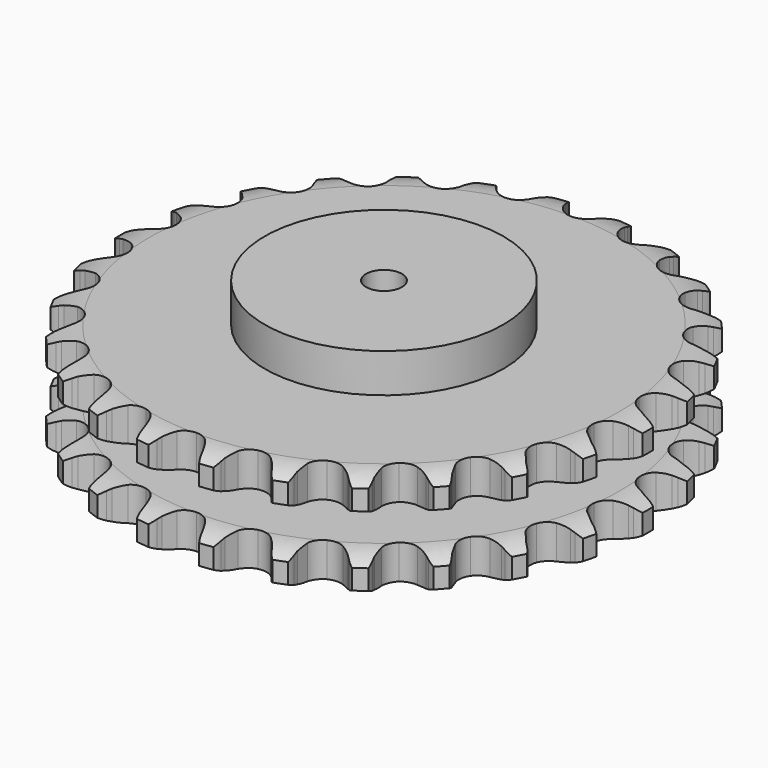
from build123d import *

# Parameters (mm, degrees)
PAD_DEPTH         = 87.4
SKETCH001_R       = 100
PAD001_DEPTH      = 120
SKETCH002_R       = 15
POCKET_DEPTH      = 0.001
POCKET_DEPTH_BACK = 120.001


with BuildPart() as part:
    # Sprocket → Pad (new body)
    with BuildSketch(Plane.XY):
        with BuildLine():
            ThreePointArc((-27.420974, 225.83204), (-21.977436, 220.908406), (-18.278157, 214.568877))
            Line((-18.278157, 214.568877), (-16.856778, 210.95338))
            ThreePointArc((-16.856778, 210.95338), (-14.597712, 206.200739), (-11.70509, 201.804865))
            ThreePointArc((-11.70509, 201.804865), (-6.530916, 197.536687), (0, 196.008112))
            ThreePointArc((0, 196.008112), (6.530916, 197.536687), (11.70509, 201.804865))
            ThreePointArc((11.70509, 201.804865), (14.597712, 206.200739), (16.856778, 210.95338))
            Line((16.856778, 210.95338), (18.278157, 214.568877))
            ThreePointArc((18.278157, 214.568877), (21.977436, 220.908406), (27.420974, 225.83204))
            ThreePointArc((27.420974, 225.83204), (31.528031, 219.748753), (33.602667, 212.708144))
            Line((33.602667, 212.708144), (34.117498, 208.85755))
            ThreePointArc((34.117498, 208.85755), (35.173538, 203.702382), (36.930104, 198.741993))
            ThreePointArc((36.930104, 198.741993), (40.932484, 193.359581), (46.907812, 190.312473))
            ThreePointArc((46.907812, 190.312473), (53.614763, 190.23368), (59.660026, 193.139571))
            Line((59.660026, 193.139571), (66.851399, 200.789368))
            ThreePointArc((66.851399, 200.789368), (67.933609, 202.403155), (69.09672, 203.959646))
            ThreePointArc((69.09672, 203.959646), (74.205653, 209.229664), (80.669315, 212.707503))
            ThreePointArc((80.669315, 212.707503), (83.201202, 205.818102), (83.530625, 198.485588))
            Line((83.530625, 198.485588), (83.108989, 194.623677))
            ThreePointArc((83.108989, 194.623677), (82.90063, 189.365582), (83.419055, 184.12896))
            ThreePointArc((83.419055, 184.12896), (86.017037, 177.945118), (91.089512, 173.556564))
            ThreePointArc((91.089512, 173.556564), (97.582715, 171.874982), (104.147739, 173.249707))
            Line((104.147739, 173.249707), (112.960859, 178.956207))
            ThreePointArc((112.960859, 178.956207), (114.397827, 180.264111), (115.899633, 181.497022))
            ThreePointArc((115.899633, 181.497022), (122.121308, 185.391255), (129.229449, 187.221179))
            ThreePointArc((129.229449, 187.221179), (130.039022, 179.926051), (128.604087, 172.72777))
            Line((128.604087, 172.72777), (127.270487, 169.078984))
            ThreePointArc((127.270487, 169.078984), (125.809839, 164.023543), (125.059993, 158.81502))
            ThreePointArc((125.059993, 158.81502), (126.102592, 152.189132), (129.97742, 146.714179))
            ThreePointArc((129.97742, 146.714179), (135.879514, 143.527535), (142.582764, 143.2912))
            Line((142.582764, 143.2912), (152.505446, 146.722761))
            ThreePointArc((152.505446, 146.722761), (154.21366, 147.648771), (155.966881, 148.486451))
            ThreePointArc((155.966881, 148.486451), (162.939716, 150.77858), (170.279237, 150.85424))
            ThreePointArc((170.279237, 150.85424), (169.319447, 143.577352), (166.203547, 136.931643))
            Line((166.203547, 136.931643), (164.035487, 133.708035))
            ThreePointArc((164.035487, 133.708035), (161.407436, 129.149052), (159.432899, 124.271329))
            ThreePointArc((159.432899, 124.271329), (158.859523, 117.588467), (161.311514, 111.345299))
            ThreePointArc((161.311514, 111.345299), (166.27949, 106.83879), (172.731396, 105.005129))
            Line((172.731396, 105.005129), (183.18697, 105.962323))
            ThreePointArc((183.18697, 105.962323), (185.067155, 106.452622), (186.9699, 106.846387))
            ThreePointArc((186.9699, 106.846387), (194.28866, 107.403202), (201.433014, 105.720201))
            ThreePointArc((201.433014, 105.720201), (198.759641, 98.884459), (194.143861, 93.177546))
            Line((194.143861, 93.177546), (191.267341, 90.566461))
            ThreePointArc((191.267341, 90.566461), (187.624621, 86.768887), (184.540144, 82.50544))
            ThreePointArc((184.540144, 82.50544), (182.384116, 76.153987), (183.270769, 69.505434))
            ThreePointArc((183.270769, 69.505434), (187.015906, 63.940962), (192.841508, 60.616542))
            Line((192.841508, 60.616542), (203.222333, 59.043739))
            ThreePointArc((203.222333, 59.043739), (205.16522, 59.069833), (207.106909, 58.996799))
            ThreePointArc((207.106909, 58.996799), (214.346253, 57.785941), (220.880237, 54.442089))
            ThreePointArc((220.880237, 54.442089), (216.648647, 48.444761), (210.80124, 44.008308))
            Line((210.80124, 44.008308), (207.383433, 42.161493))
            ThreePointArc((207.383433, 42.161493), (202.937744, 39.34603), (198.922587, 35.944635))
            ThreePointArc((198.922587, 35.944635), (195.309208, 30.293715), (194.578992, 23.626167))
            ThreePointArc((194.578992, 23.626167), (196.883638, 17.327118), (201.744373, 12.705142))
            Line((201.744373, 12.705142), (211.447153, 8.693747))
            ThreePointArc((211.447153, 8.693747), (213.339828, 8.25412), (215.207616, 7.718532))
            ThreePointArc((215.207616, 7.718532), (221.946822, 4.81037), (227.490704, 0))
            ThreePointArc((227.490704, 0), (221.946822, -4.81037), (215.207616, -7.718532))
            Line((215.207616, -7.718532), (211.447153, -8.693747))
            ThreePointArc((211.447153, -8.693747), (206.456864, -10.363475), (201.744373, -12.705142))
            ThreePointArc((201.744373, -12.705142), (196.883638, -17.327118), (194.578992, -23.626167))
            ThreePointArc((194.578992, -23.626167), (195.309208, -30.293715), (198.922587, -35.944635))
            Line((198.922587, -35.944635), (207.383433, -42.161493))
            ThreePointArc((207.383433, -42.161493), (209.1159, -43.041292), (210.80124, -44.008308))
            ThreePointArc((210.80124, -44.008308), (216.648647, -48.444761), (220.880237, -54.442089))
            ThreePointArc((220.880237, -54.442089), (214.346253, -57.785941), (207.106909, -58.996799))
            Line((207.106909, -58.996799), (203.222333, -59.043739))
            ThreePointArc((203.222333, -59.043739), (197.977461, -59.470693), (192.841508, -60.616542))
            ThreePointArc((192.841508, -60.616542), (187.015906, -63.940962), (183.270769, -69.505434))
            ThreePointArc((183.270769, -69.505434), (182.384116, -76.153987), (184.540144, -82.50544))
            Line((184.540144, -82.50544), (191.267341, -90.566461))
            ThreePointArc((191.267341, -90.566461), (192.738917, -91.835301), (194.143861, -93.177546))
            ThreePointArc((194.143861, -93.177546), (198.759641, -98.884459), (201.433014, -105.720201))
            ThreePointArc((201.433014, -105.720201), (194.28866, -107.403202), (186.9699, -106.846387))
            Line((186.9699, -106.846387), (183.18697, -105.962323))
            ThreePointArc((183.18697, -105.962323), (177.992327, -105.12169), (172.731396, -105.005129))
            ThreePointArc((172.731396, -105.005129), (166.27949, -106.83879), (161.311514, -111.345299))
            ThreePointArc((161.311514, -111.345299), (158.859523, -117.588467), (159.432899, -124.271329))
            Line((159.432899, -124.271329), (164.035487, -133.708035))
            ThreePointArc((164.035487, -133.708035), (165.160648, -135.292176), (166.203547, -136.931643))
            ThreePointArc((166.203547, -136.931643), (169.319447, -143.577352), (170.279237, -150.85424))
            ThreePointArc((170.279237, -150.85424), (162.939716, -150.77858), (155.966881, -148.486451))
            Line((155.966881, -148.486451), (152.505446, -146.722761))
            ThreePointArc((152.505446, -146.722761), (147.662926, -144.663397), (142.582764, -143.2912))
            ThreePointArc((142.582764, -143.2912), (135.879514, -143.527535), (129.97742, -146.714179))
            ThreePointArc((129.97742, -146.714179), (126.102592, -152.189132), (125.059993, -158.81502))
            Line((125.059993, -158.81502), (127.270487, -169.078984))
            ThreePointArc((127.270487, -169.078984), (127.983843, -170.886361), (128.604087, -172.72777))
            ThreePointArc((128.604087, -172.72777), (130.039022, -179.926051), (129.229449, -187.221179))
            ThreePointArc((129.229449, -187.221179), (122.121308, -185.391255), (115.899633, -181.497022))
            Line((115.899633, -181.497022), (112.960859, -178.956207))
            ThreePointArc((112.960859, -178.956207), (108.751893, -175.797792), (104.147739, -173.249707))
            ThreePointArc((104.147739, -173.249707), (97.582715, -171.874982), (91.089512, -173.556564))
            ThreePointArc((91.089512, -173.556564), (86.017037, -177.945118), (83.419055, -184.12896))
            Line((83.419055, -184.12896), (83.108989, -194.623677))
            ThreePointArc((83.108989, -194.623677), (83.369082, -196.549253), (83.530625, -198.485588))
            ThreePointArc((83.530625, -198.485588), (83.201202, -205.818102), (80.669315, -212.707503))
            ThreePointArc((80.669315, -212.707503), (74.205653, -209.229664), (69.09672, -203.959646))
            Line((69.09672, -203.959646), (66.851399, -200.789368))
            ThreePointArc((66.851399, -200.789368), (63.520596, -196.71546), (59.660026, -193.139571))
            ThreePointArc((59.660026, -193.139571), (53.614763, -190.23368), (46.907812, -190.312473))
            ThreePointArc((46.907812, -190.312473), (40.932484, -193.359581), (36.930104, -198.741993))
            Line((36.930104, -198.741993), (34.117498, -208.85755))
            ThreePointArc((34.117498, -208.85755), (33.909213, -210.789416), (33.602667, -212.708144))
            ThreePointArc((33.602667, -212.708144), (31.528031, -219.748753), (27.420974, -225.83204))
            ThreePointArc((27.420974, -225.83204), (21.977436, -220.908406), (18.278157, -214.568877))
            Line((18.278157, -214.568877), (16.856778, -210.95338))
            ThreePointArc((16.856778, -210.95338), (14.597712, -206.200739), (11.70509, -201.804865))
            ThreePointArc((11.70509, -201.804865), (6.530916, -197.536687), (0, -196.008112))
            ThreePointArc((0, -196.008112), (-6.530916, -197.536687), (-11.70509, -201.804865))
            Line((-11.70509, -201.804865), (-16.856778, -210.95338))
            ThreePointArc((-16.856778, -210.95338), (-17.521336, -212.779264), (-18.278157, -214.568877))
            ThreePointArc((-18.278157, -214.568877), (-21.977436, -220.908406), (-27.420974, -225.83204))
            ThreePointArc((-27.420974, -225.83204), (-31.528031, -219.748753), (-33.602667, -212.708144))
            Line((-33.602667, -212.708144), (-34.117498, -208.85755))
            ThreePointArc((-34.117498, -208.85755), (-35.173538, -203.702382), (-36.930104, -198.741993))
            ThreePointArc((-36.930104, -198.741993), (-40.932484, -193.359581), (-46.907812, -190.312473))
            ThreePointArc((-46.907812, -190.312473), (-53.614763, -190.23368), (-59.660026, -193.139571))
            Line((-59.660026, -193.139571), (-66.851399, -200.789368))
            ThreePointArc((-66.851399, -200.789368), (-67.933609, -202.403155), (-69.09672, -203.959646))
            ThreePointArc((-69.09672, -203.959646), (-74.205653, -209.229664), (-80.669315, -212.707503))
            ThreePointArc((-80.669315, -212.707503), (-83.201202, -205.818102), (-83.530625, -198.485588))
            Line((-83.530625, -198.485588), (-83.108989, -194.623677))
            ThreePointArc((-83.108989, -194.623677), (-82.90063, -189.365582), (-83.419055, -184.12896))
            ThreePointArc((-83.419055, -184.12896), (-86.017037, -177.945118), (-91.089512, -173.556564))
            ThreePointArc((-91.089512, -173.556564), (-97.582715, -171.874982), (-104.147739, -173.249707))
            Line((-104.147739, -173.249707), (-112.960859, -178.956207))
            ThreePointArc((-112.960859, -178.956207), (-114.397827, -180.264111), (-115.899633, -181.497022))
            ThreePointArc((-115.899633, -181.497022), (-122.121308, -185.391255), (-129.229449, -187.221179))
            ThreePointArc((-129.229449, -187.221179), (-130.039022, -179.926051), (-128.604087, -172.72777))
            Line((-128.604087, -172.72777), (-127.270487, -169.078984))
            ThreePointArc((-127.270487, -169.078984), (-125.809839, -164.023543), (-125.059993, -158.81502))
            ThreePointArc((-125.059993, -158.81502), (-126.102592, -152.189132), (-129.97742, -146.714179))
            ThreePointArc((-129.97742, -146.714179), (-135.879514, -143.527535), (-142.582764, -143.2912))
            Line((-142.582764, -143.2912), (-152.505446, -146.722761))
            ThreePointArc((-152.505446, -146.722761), (-154.21366, -147.648771), (-155.966881, -148.486451))
            ThreePointArc((-155.966881, -148.486451), (-162.939716, -150.77858), (-170.279237, -150.85424))
            ThreePointArc((-170.279237, -150.85424), (-169.319447, -143.577352), (-166.203547, -136.931643))
            Line((-166.203547, -136.931643), (-164.035487, -133.708035))
            ThreePointArc((-164.035487, -133.708035), (-161.407436, -129.149052), (-159.432899, -124.271329))
            ThreePointArc((-159.432899, -124.271329), (-158.859523, -117.588467), (-161.311514, -111.345299))
            ThreePointArc((-161.311514, -111.345299), (-166.27949, -106.83879), (-172.731396, -105.005129))
            Line((-172.731396, -105.005129), (-183.18697, -105.962323))
            ThreePointArc((-183.18697, -105.962323), (-185.067155, -106.452622), (-186.9699, -106.846387))
            ThreePointArc((-186.9699, -106.846387), (-194.28866, -107.403202), (-201.433014, -105.720201))
            ThreePointArc((-201.433014, -105.720201), (-198.759641, -98.884459), (-194.143861, -93.177546))
            Line((-194.143861, -93.177546), (-191.267341, -90.566461))
            ThreePointArc((-191.267341, -90.566461), (-187.624621, -86.768887), (-184.540144, -82.50544))
            ThreePointArc((-184.540144, -82.50544), (-182.384116, -76.153987), (-183.270769, -69.505434))
            ThreePointArc((-183.270769, -69.505434), (-187.015906, -63.940962), (-192.841508, -60.616542))
            Line((-192.841508, -60.616542), (-203.222333, -59.043739))
            ThreePointArc((-203.222333, -59.043739), (-205.16522, -59.069833), (-207.106909, -58.996799))
            ThreePointArc((-207.106909, -58.996799), (-214.346253, -57.785941), (-220.880237, -54.442089))
            ThreePointArc((-220.880237, -54.442089), (-216.648647, -48.444761), (-210.80124, -44.008308))
            Line((-210.80124, -44.008308), (-207.383433, -42.161493))
            ThreePointArc((-207.383433, -42.161493), (-202.937744, -39.34603), (-198.922587, -35.944635))
            ThreePointArc((-198.922587, -35.944635), (-195.309208, -30.293715), (-194.578992, -23.626167))
            ThreePointArc((-194.578992, -23.626167), (-196.883638, -17.327118), (-201.744373, -12.705142))
            Line((-201.744373, -12.705142), (-211.447153, -8.693747))
            ThreePointArc((-211.447153, -8.693747), (-213.339828, -8.25412), (-215.207616, -7.718532))
            ThreePointArc((-215.207616, -7.718532), (-221.946822, -4.81037), (-227.490704, 0))
            ThreePointArc((-227.490704, 0), (-221.946822, 4.81037), (-215.207616, 7.718532))
            Line((-215.207616, 7.718532), (-211.447153, 8.693747))
            ThreePointArc((-211.447153, 8.693747), (-206.456864, 10.363475), (-201.744373, 12.705142))
            ThreePointArc((-201.744373, 12.705142), (-196.883638, 17.327118), (-194.578992, 23.626167))
            ThreePointArc((-194.578992, 23.626167), (-195.309208, 30.293715), (-198.922587, 35.944635))
            Line((-198.922587, 35.944635), (-207.383433, 42.161493))
            ThreePointArc((-207.383433, 42.161493), (-209.1159, 43.041292), (-210.80124, 44.008308))
            ThreePointArc((-210.80124, 44.008308), (-216.648647, 48.444761), (-220.880237, 54.442089))
            ThreePointArc((-220.880237, 54.442089), (-214.346253, 57.785941), (-207.106909, 58.996799))
            Line((-207.106909, 58.996799), (-203.222333, 59.043739))
            ThreePointArc((-203.222333, 59.043739), (-197.977461, 59.470693), (-192.841508, 60.616542))
            ThreePointArc((-192.841508, 60.616542), (-187.015906, 63.940962), (-183.270769, 69.505434))
            ThreePointArc((-183.270769, 69.505434), (-182.384116, 76.153987), (-184.540144, 82.50544))
            Line((-184.540144, 82.50544), (-191.267341, 90.566461))
            ThreePointArc((-191.267341, 90.566461), (-192.738917, 91.835301), (-194.143861, 93.177546))
            ThreePointArc((-194.143861, 93.177546), (-198.759641, 98.884459), (-201.433014, 105.720201))
            ThreePointArc((-201.433014, 105.720201), (-194.28866, 107.403202), (-186.9699, 106.846387))
            Line((-186.9699, 106.846387), (-183.18697, 105.962323))
            ThreePointArc((-183.18697, 105.962323), (-177.992327, 105.12169), (-172.731396, 105.005129))
            ThreePointArc((-172.731396, 105.005129), (-166.27949, 106.83879), (-161.311514, 111.345299))
            ThreePointArc((-161.311514, 111.345299), (-158.859523, 117.588467), (-159.432899, 124.271329))
            Line((-159.432899, 124.271329), (-164.035487, 133.708035))
            ThreePointArc((-164.035487, 133.708035), (-165.160648, 135.292176), (-166.203547, 136.931643))
            ThreePointArc((-166.203547, 136.931643), (-169.319447, 143.577352), (-170.279237, 150.85424))
            ThreePointArc((-170.279237, 150.85424), (-162.939716, 150.77858), (-155.966881, 148.486451))
            Line((-155.966881, 148.486451), (-152.505446, 146.722761))
            ThreePointArc((-152.505446, 146.722761), (-147.662926, 144.663397), (-142.582764, 143.2912))
            ThreePointArc((-142.582764, 143.2912), (-135.879514, 143.527535), (-129.97742, 146.714179))
            ThreePointArc((-129.97742, 146.714179), (-126.102592, 152.189132), (-125.059993, 158.81502))
            Line((-125.059993, 158.81502), (-127.270487, 169.078984))
            ThreePointArc((-127.270487, 169.078984), (-127.983843, 170.886361), (-128.604087, 172.72777))
            ThreePointArc((-128.604087, 172.72777), (-130.039022, 179.926051), (-129.229449, 187.221179))
            ThreePointArc((-129.229449, 187.221179), (-122.121308, 185.391255), (-115.899633, 181.497022))
            Line((-115.899633, 181.497022), (-112.960859, 178.956207))
            ThreePointArc((-112.960859, 178.956207), (-108.751893, 175.797792), (-104.147739, 173.249707))
            ThreePointArc((-104.147739, 173.249707), (-97.582715, 171.874982), (-91.089512, 173.556564))
            ThreePointArc((-91.089512, 173.556564), (-86.017037, 177.945118), (-83.419055, 184.12896))
            Line((-83.419055, 184.12896), (-83.108989, 194.623677))
            ThreePointArc((-83.108989, 194.623677), (-83.369082, 196.549253), (-83.530625, 198.485588))
            ThreePointArc((-83.530625, 198.485588), (-83.201202, 205.818102), (-80.669315, 212.707503))
            ThreePointArc((-80.669315, 212.707503), (-74.205653, 209.229664), (-69.09672, 203.959646))
            Line((-69.09672, 203.959646), (-66.851399, 200.789368))
            ThreePointArc((-66.851399, 200.789368), (-63.520596, 196.71546), (-59.660026, 193.139571))
            ThreePointArc((-59.660026, 193.139571), (-53.614763, 190.23368), (-46.907812, 190.312473))
            ThreePointArc((-46.907812, 190.312473), (-40.932484, 193.359581), (-36.930104, 198.741993))
            Line((-36.930104, 198.741993), (-34.117498, 208.85755))
            ThreePointArc((-34.117498, 208.85755), (-33.909213, 210.789416), (-33.602667, 212.708144))
            ThreePointArc((-33.602667, 212.708144), (-31.528031, 219.748753), (-27.420974, 225.83204))
        make_face()
    extrude(amount=PAD_DEPTH)

    # Sketch → Groove (revolve, cut)
    with BuildSketch(Plane.XZ):
        with BuildLine():
            ThreePointArc((196.95, 0), (209.319317, 1.522732), (220.95, 6))
            Line((220.95, 6), (220.95, 22.8))
            ThreePointArc((220.95, 22.8), (209.319317, 27.277268), (196.95, 28.8))
            Line((100, 28.8), (196.95, 28.8))
            Line((100, 58.6), (100, 28.8))
            Line((196.95, 58.6), (100, 58.6))
            ThreePointArc((196.95, 58.6), (209.319317, 60.122732), (220.95, 64.6))
            Line((220.95, 64.6), (220.95, 81.4))
            ThreePointArc((220.95, 81.4), (209.319317, 85.877268), (196.95, 87.4))
            Line((196.95, 87.4), (230.95, 87.4))
            Line((230.95, 87.4), (230.95, 0))
            Line((196.95, 0), (230.95, 0))
        make_face()
    revolve(axis=Axis((0, 0, 0), (0, 0, 1)), mode=Mode.SUBTRACT)

    # Sketch001 → Pad001 (join)
    with BuildSketch(Plane.XY):
        Circle(SKETCH001_R)
    extrude(amount=PAD001_DEPTH)

    # Sketch002 → Pocket (cut, two sides)
    with BuildSketch(Plane.XY) as pocket_sk:
        Circle(SKETCH002_R)
    extrude(amount=-POCKET_DEPTH, mode=Mode.SUBTRACT)
    extrude(pocket_sk.sketch, amount=POCKET_DEPTH_BACK, mode=Mode.SUBTRACT)


solid = part.part
